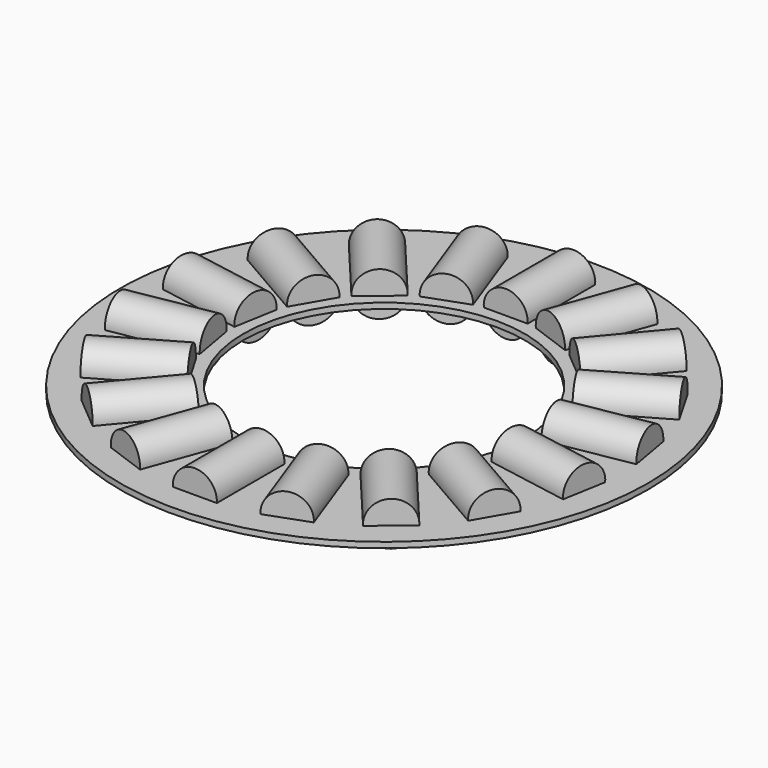
from build123d import *

# Parameters (mm, degrees)
F0_R     = 11.90625
F0_R_2   = 6.35
F1_DEPTH = 0.127
F3_R     = 0.9921875
F4_DEPTH = 3.81
F5_COUNT = 18


with BuildPart() as f1:
    # F0 (on Top) → F1 (new body, symmetric)
    with BuildSketch(Plane.XY):
        Circle(F0_R)
        Circle(F0_R_2, mode=Mode.SUBTRACT)
    extrude(amount=F1_DEPTH, both=True)

    # F3 (on offset) → F4 (join)
    with BuildSketch(Plane.XZ.offset(10.668)):
        with Locations((0, 0.1984869643)):
            Circle(F3_R)
    extrude(amount=-F4_DEPTH)

    # F5: F1 ×18 about axis
    f5_axis = Axis((0, 0, 0), (0, 0, -1))


with BuildPart() as f1_1:
    add(f1.part)
    for i in range(1, F5_COUNT):
        add(f1.part.rotate(f5_axis, i * 360 / F5_COUNT))


solid = f1_1.part
